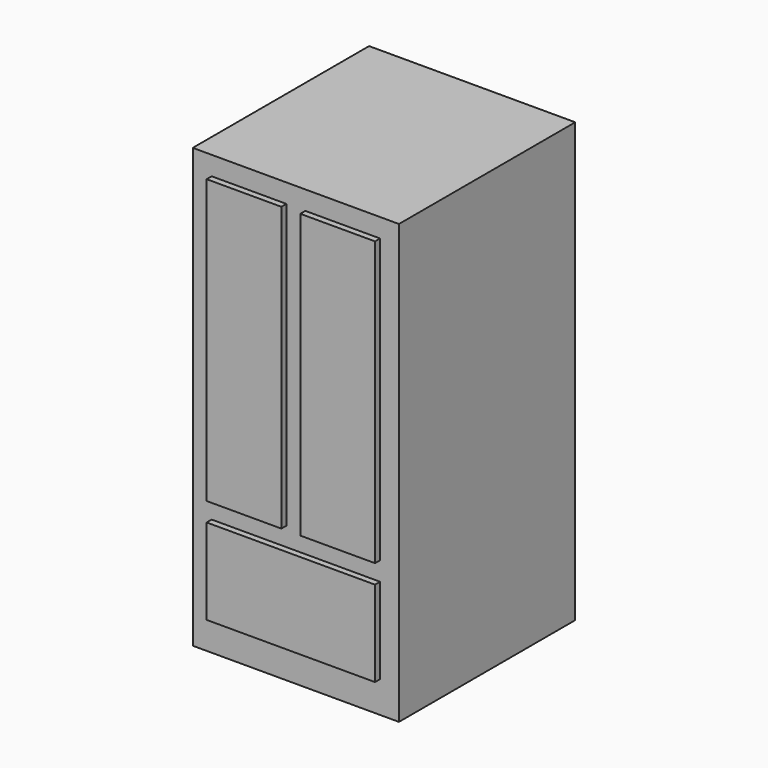
from build123d import *

# Parameters (mm, degrees)
F0_W     = 831.85
F0_H     = 889
F1_DEPTH = 1768.475
F2_W     = 301.625
F2_H     = 1143
F2_W_2   = 679.45
F2_H_2   = 346.075
F3_DEPTH = 25.4


with BuildPart() as f1:
    # F0 (on Top) → F1 (new body)
    with BuildSketch(Plane.XY):
        with Locations((415.925, 444.5)):
            Rectangle(F0_W, F0_H)
    extrude(amount=F1_DEPTH)

    # F2 (on face) → F3 (join)
    with BuildSketch(Plane.XZ):
        with Locations((227.0125, 1120.775)):
            Rectangle(F2_W, F2_H)
        with Locations((604.8375, 1120.775)):
            Rectangle(F2_W, F2_H)
        with Locations((415.925, 300.0375)):
            Rectangle(F2_W_2, F2_H_2)
    extrude(amount=F3_DEPTH)


solid = f1.part
